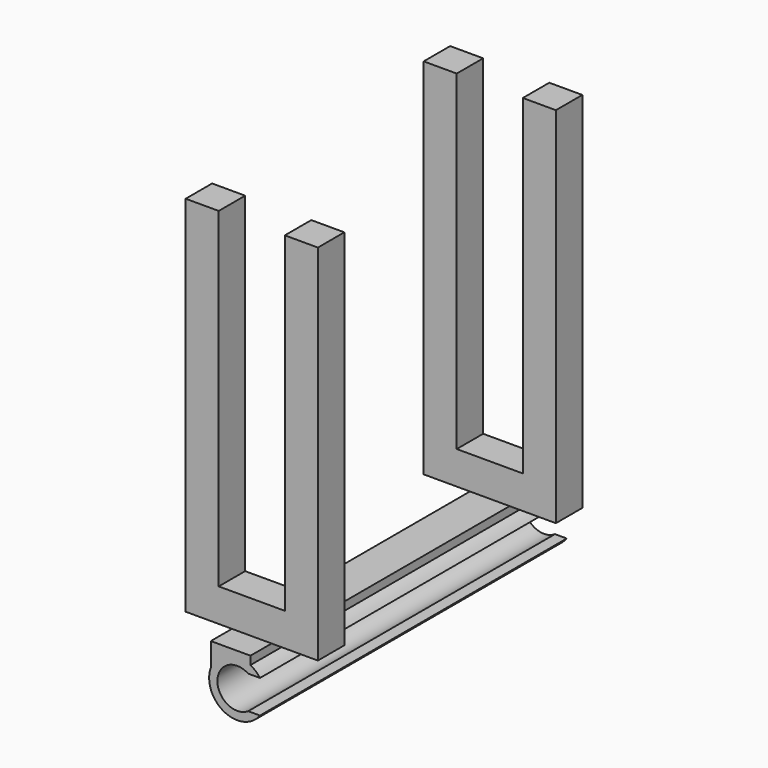
from build123d import *

# Parameters (mm, degrees)
F1_DEPTH = 73.66
F3_DEPTH = 73.66
F4_W     = 25.4
F4_H     = 6.349999
F4_H_2   = 6.35
F5_DEPTH = 69.85
F6_W     = 12.7
F6_H     = 63.5
F7_DEPTH = 63.5


with BuildPart() as f1:
    # F0 (on Front) → F1 (new body)
    with BuildSketch(Plane.XZ):
        with BuildLine():
            ThreePointArc((2.106057, -3.175), (-3.81, 0), (2.106057, 3.175))
            Line((2.106057, 3.175), (4.364903, 3.175))
            ThreePointArc((4.364903, 3.175), (-5.3975, 0), (4.364903, -3.175))
            Line((4.364903, -3.175), (2.106057, -3.175))
        make_face()
    extrude(amount=F1_DEPTH)

    # F2 (on face) → F3 (join, through all)
    with BuildSketch(Plane.XZ.offset(73.66)):
        with BuildLine():
            Line((-5.08, 6.35), (-5.08, 1.823899))
            ThreePointArc((-5.08, 1.823899), (-1.942098, 5.035997), (2.54, 4.7625))
            Line((2.54, 4.7625), (2.54, 6.35))
            Line((2.54, 6.35), (-5.08, 6.35))
        make_face()
    extrude(amount=-F3_DEPTH)

    # F4 (on face) → F5 (join)
    with BuildSketch(Plane.XY.offset(6.35)):
        with Locations((-1.27, -65.405)):
            Rectangle(F4_W, F4_H)
        with Locations((-1.27, -8.255)):
            Rectangle(F4_W, F4_H_2)
    extrude(amount=F5_DEPTH)

    # F6 (on face) → F7 (cut, through all)
    with BuildSketch(Plane.XZ.offset(68.58)):
        with Locations((-1.27, 44.45)):
            Rectangle(F6_W, F6_H)
    extrude(amount=-F7_DEPTH, mode=Mode.SUBTRACT)


solid = f1.part
